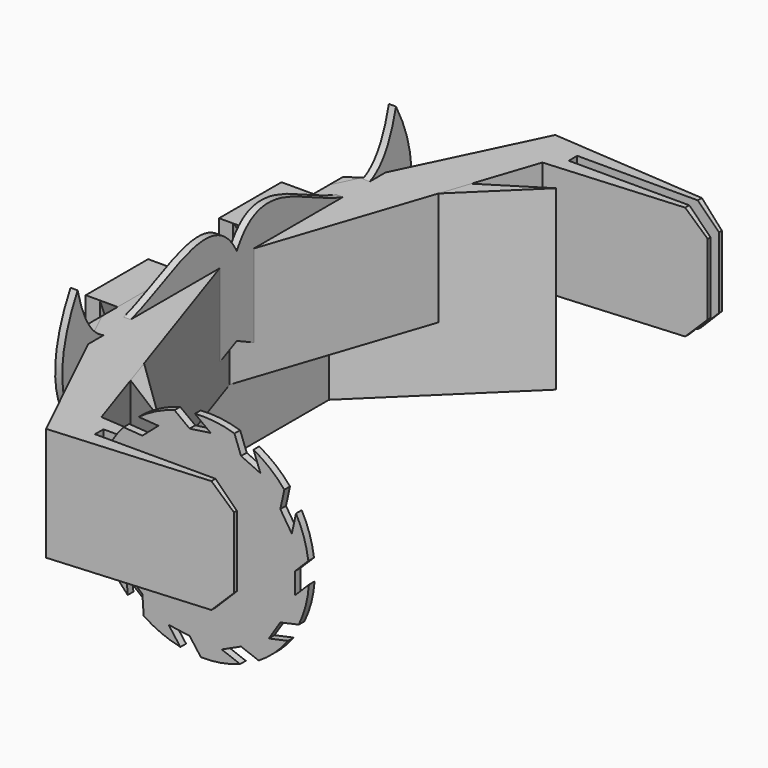
from build123d import *

# Parameters (mm, degrees)
SKETCH001_W        = 34.5
SKETCH001_H        = 10
PAD_DEPTH          = 2
PAD001_DEPTH       = 2.5
SKETCH002_W        = 11
SKETCH002_H        = 9.5
PAD002_DEPTH       = 2
PAD003_DEPTH       = 1
PAD004_DEPTH       = 25
PAD005_DEPTH       = 16
POCKET_DEPTH       = 94.862702
SKETCH008_R        = 15
SKETCH008_R_2      = 1
PAD006_DEPTH       = 0.5
POCKET001_DEPTH    = 5
POLARPATTERN_COUNT = 11


with BuildPart() as template:
    # Sketch001 → Pad (new body)
    with BuildSketch(Plane.YZ):
        with Locations((0, -5)):
            Rectangle(SKETCH001_W, SKETCH001_H)
    extrude(amount=PAD_DEPTH)

    # Sketch (on DatumPlane) → Pad001 (join)
    with BuildSketch(Plane(origin=(0, 0, 0), x_dir=(0, 1, 0), z_dir=(-1, 0, 0))):
        Polygon((-17.25, 0), (-13.5, 9.5), (-6.25, 0), align=None)
        Polygon((6.25, 0), (17.25, 0), (13.5, 9.5), align=None)
    extrude(amount=PAD001_DEPTH)

    # Sketch002 (on DatumPlane) → Pad002 (join)
    with BuildSketch(Plane(origin=(-2.5, 0, 0), x_dir=(0, 1, 0), z_dir=(-1, 0, 0))):
        with Locations((-11.75, 4.75)):
            Rectangle(SKETCH002_W, SKETCH002_H)
        with Locations((11.75, 4.75)):
            Rectangle(SKETCH002_W, SKETCH002_H)
    extrude(amount=PAD002_DEPTH)


with BuildPart() as template_1:
    # Body placement: moved
    add(template.part.moved(Location((-2, 0, 0))))


with BuildPart() as mustache:
    # Sketch003 → Pad003 (new body)
    with BuildSketch(Plane.YZ):
        with BuildLine():
            add(Edge.make_bspline(
                [(-28.055799, 7.434314), (-23.296385, -12.717148), (-6.931082, 13.889085), (0, 0.895992)],
                knots=[0, 0, 0, 0, 1, 1, 1, 1], degree=3))
            Line((0, 0.895992), (0, -10.253164))
            add(Edge.make_bspline(
                [(-28.055799, 7.434314), (-37.450657, -9.660122), (-21.014225, -21.025372), (0, -10.253164)],
                knots=[0, 0, 0, 0, 1, 1, 1, 1], degree=3))
        make_face()
    pad003 = extrude(amount=PAD003_DEPTH)

    # Mirrored: Pad003 across XZ
    add(pad003.mirror(Plane.XZ))


with BuildPart() as obj1:
    # Sketch004 → Pad004 (new body)
    with BuildSketch(Plane.XY):
        Polygon((-2, 22.5), (18, 35), (0, 17.5), (0, -17.5), (18, -35), (-2, -22.5), align=None)
    extrude(amount=-PAD004_DEPTH)


with BuildPart() as obj2:
    # Sketch005 → Pad005 (new body)
    with BuildSketch(Plane.XY):
        Polygon((-2, 20), (-2, -20), (10, -44.861702), (35, -43), (35, -42.5), (15, -42.5), (15, -41), (35, -41), (35, -40.5), (13, -38.861702), (0, 0), (13, 38.861702), (35, 40.5), (35, 41), (15, 41), (15, 42.5), (35, 42.5), (35, 43), (10, 44.861702), align=None)
    extrude(amount=-PAD005_DEPTH)

    # Sketch006 (on DatumPlane) → Pocket (cut, through all)
    with BuildSketch(Plane.XZ.offset(50)):
        Polygon((0, -48.000488), (40, -8), (0, 31.999512), (80, 31.999512), (80, -48.000488), align=None)
    extrude(amount=-POCKET_DEPTH, mode=Mode.SUBTRACT)

    # Sketch007 (on DatumPlane) → Revolution (revolve)
    with BuildSketch(Plane.XY.offset(-8)):
        with BuildLine():
            ThreePointArc((30, 41.76), (30.523259, 41.976741), (30.74, 42.5))
            Line((30, 42.5), (30.74, 42.5))
            Line((30, 42.5), (30, 41.76))
        make_face()
        with BuildLine():
            ThreePointArc((30.74, 41), (30.523259, 41.523259), (30, 41.74))
            Line((30, 41.74), (30, 41))
            Line((30, 41), (30.74, 41))
        make_face()
        with BuildLine():
            Line((30, -41), (30.74, -41))
            ThreePointArc((30, -41.74), (30.523259, -41.523259), (30.74, -41))
            Line((30, -41.74), (30, -41))
        make_face()
        with BuildLine():
            Line((30, -42.5), (30.74, -42.5))
            ThreePointArc((30.74, -42.5), (30.523259, -41.976741), (30, -41.76))
            Line((30, -41.76), (30, -42.5))
        make_face()
    revolve(axis=Axis((30, 0, -8), (0, 1, 0)))


with BuildPart() as obj2_blade:
    # Sketch008 → Pad006 (new body, symmetric)
    with BuildSketch(Plane.XZ):
        Circle(SKETCH008_R)
        Circle(SKETCH008_R_2, mode=Mode.SUBTRACT)
    extrude(amount=PAD006_DEPTH, both=True)

    # Sketch009 (on Face3 of Pad006) → Pocket001 (cut)
    with BuildSketch(Plane(origin=(0, 0.5, 0), x_dir=(1, 0, 0), z_dir=(0, 1, 0))):
        Polygon((13, 3), (16, 0), (16, -3), (13, 0), align=None)
    pocket001 = extrude(amount=-POCKET001_DEPTH, mode=Mode.SUBTRACT)

    # PolarPattern: Pocket001 ×11 about axis
    polarpattern_axis = Axis((0, 0.5, 0), (0, 1, 0))
    for i in range(1, POLARPATTERN_COUNT):
        add(pocket001.rotate(polarpattern_axis, i * 360 / POLARPATTERN_COUNT), mode=Mode.SUBTRACT)


with BuildPart() as obj2_blade_1:
    # Body004 placement: moved
    add(obj2_blade.part.moved(Location((30, -41.75, -8))))


solid = Compound([template_1.part, mustache.part, obj1.part, obj2.part, obj2_blade_1.part])
